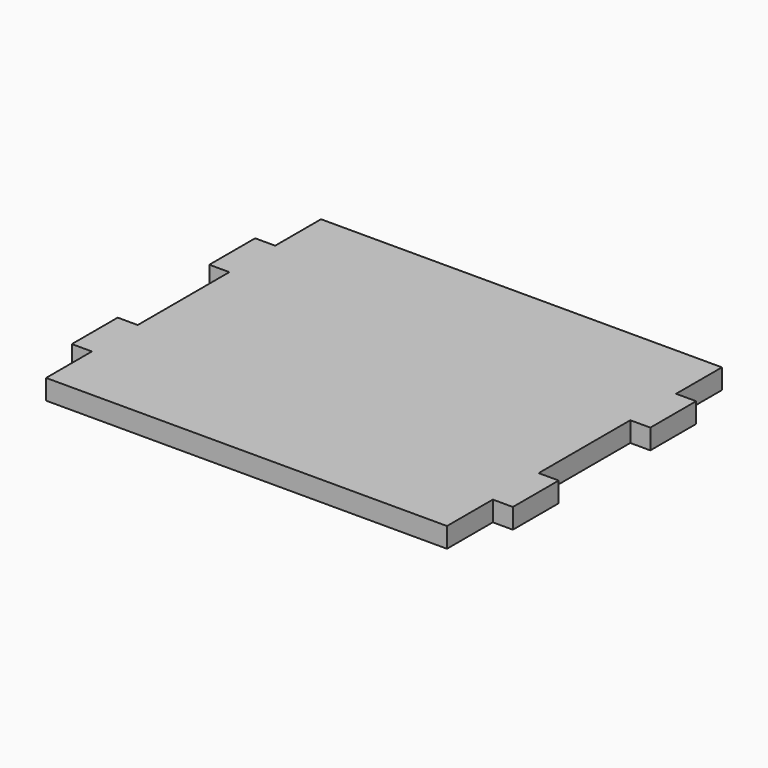
from build123d import *

# Parameters (mm, degrees)
F0_W     = 70
F0_H     = 60
F1_DEPTH = 3.5
F2_W     = 10
F2_H     = 3.5
F3_DEPTH = 3.5
F4_W     = 10
F4_H     = 3.5
F5_DEPTH = 3.5


with BuildPart() as f1:
    # F0 (on Top) → F1 (new body)
    with BuildSketch(Plane.XY):
        Rectangle(F0_W, F0_H)
        Rectangle(F0_W, F0_H)
    extrude(amount=F1_DEPTH)

    # F2 (on face) → F3 (join)
    with BuildSketch(Plane.YZ.offset(35)):
        with Locations((-15, 1.75)):
            Rectangle(F2_W, F2_H)
        with Locations((15, 1.75)):
            Rectangle(F2_W, F2_H)
    extrude(amount=F3_DEPTH)

    # F4 (on face) → F5 (join)
    with BuildSketch(Plane(origin=(-35, 0, 0), x_dir=(0, -1, 0), z_dir=(-1, 0, 0))):
        with Locations((-15, 1.75)):
            Rectangle(F4_W, F4_H)
        with Locations((15, 1.75)):
            Rectangle(F4_W, F4_H)
    extrude(amount=F5_DEPTH)


solid = f1.part
